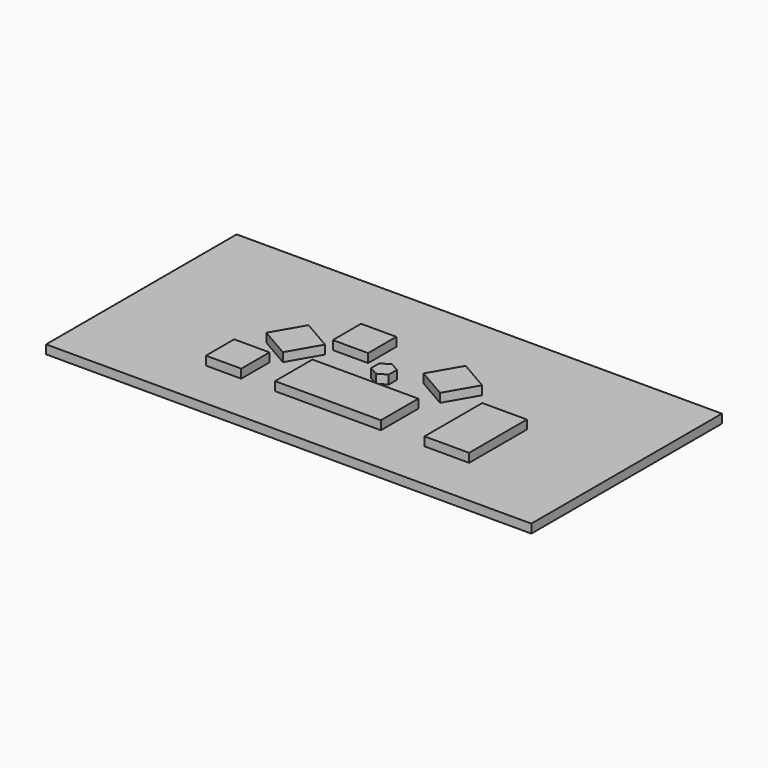
from build123d import *

# Parameters (mm, degrees)
F0_W          = 1397
F0_H          = 685.8
F1_DEPTH      = 25.4
F2_W          = 152.4
F2_H          = 134.620013
F2_W_2        = 101.6
F2_H_2        = 101.6
F2_W_3        = 128.38968
F2_H_3        = 207.753256
F3_DEPTH      = 25.4
F3_DEPTH_BACK = 25.4


with BuildPart() as f1:
    # F0 (on Top) → F1 (new body)
    with BuildSketch(Plane.XY):
        Rectangle(F0_W, F0_H)
    extrude(amount=F1_DEPTH)


with BuildPart() as f3:
    # F2 (on face) → F3 (new body, two sides)
    with BuildSketch(Plane.XY.offset(25.4)) as f3_sk:
        Polygon((-25.4, -14.664697), (-1.920265, -28.220728), (-1.920265, 28.220728), (-25.4, 14.664697), align=None)
        Polygon((-1.920265, 28.220728), (-1.920265, -28.220728), (0, -29.329394), (25.4, -14.664697), (25.4, 14.664697), (0, 29.329394), align=None)
        with Locations((-78.120265, -131.943198)):
            Rectangle(F2_W, F2_H)
        with Locations((74.279735, -131.943198)):
            Rectangle(F2_W, F2_H)
        with Locations((-302.363224, -148.453205)):
            Rectangle(F2_W_2, F2_H_2)
        with Locations((340.284895, -95.376577)):
            Rectangle(F2_W_3, F2_H_3)
        Polygon((-177.8, 9.795263), (-265.788181, 60.595263), (-316.588181, -27.392918), (-228.6, -78.192918), align=None)
        with Locations((-127, 88.83209)):
            Rectangle(F2_W_2, F2_H_2)
        Polygon((221.794091, 75.891693), (133.805909, 126.691693), (83.005909, 38.703512), (170.994091, -12.096488), align=None)
    extrude(amount=F3_DEPTH)
    extrude(f3_sk.sketch, amount=-F3_DEPTH_BACK)


solid = Compound([f1.part, f3.part])
